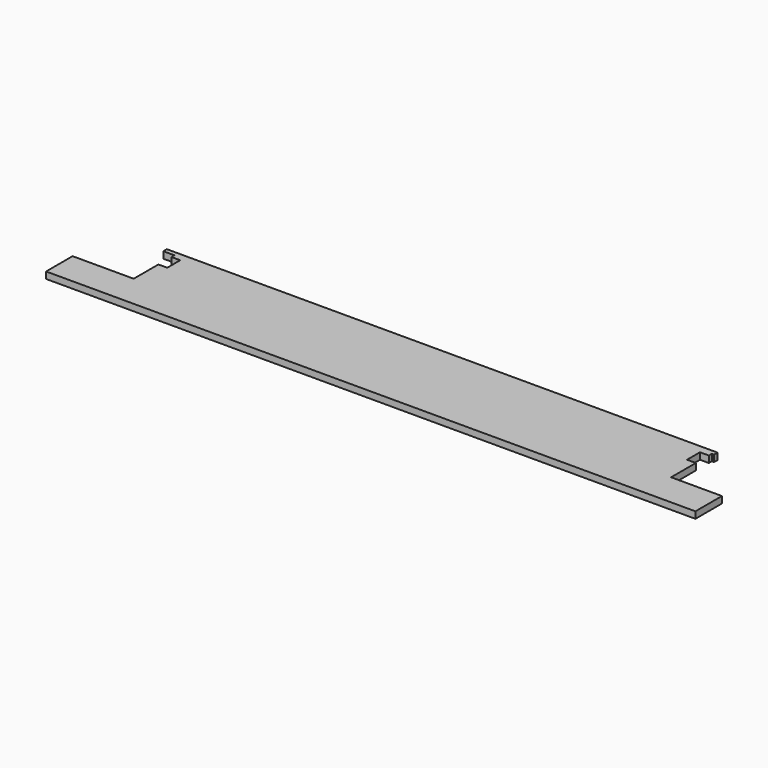
from build123d import *

# Parameters (mm, degrees)
F0_W     = 882
F0_H     = 120
F1_DEPTH = 9
F3_DEPTH = 9.001


with BuildPart() as f1:
    # F0 (on Top) → F1 (new body)
    with BuildSketch(Plane.XY):
        with Locations((395.077364, 50.783694)):
            Rectangle(F0_W, F0_H)
    extrude(amount=F1_DEPTH)

    # F2 (on face) → F3 (cut, through all)
    with BuildSketch(Plane.XY.offset(9)):
        Polygon((770.077364, 104.783694), (767.077364, 104.783694), (767.077364, 99.783694), (755.077364, 99.783694), (755.077364, 77.783694), (767.077364, 77.783694), (767.077364, 35.783694), (836.077364, 35.783694), (836.077364, 110.783694), (770.077364, 110.783694), align=None)
        Polygon((-45.922636, 35.783694), (37.077364, 35.783694), (37.077364, 77.783694), (49.077364, 77.783694), (49.077364, 99.783694), (37.077364, 99.783694), (37.077364, 104.783694), (22.077364, 104.783694), (22.077364, 110.783694), (-45.922636, 110.783694), align=None)
    extrude(amount=-F3_DEPTH, mode=Mode.SUBTRACT)


solid = f1.part
